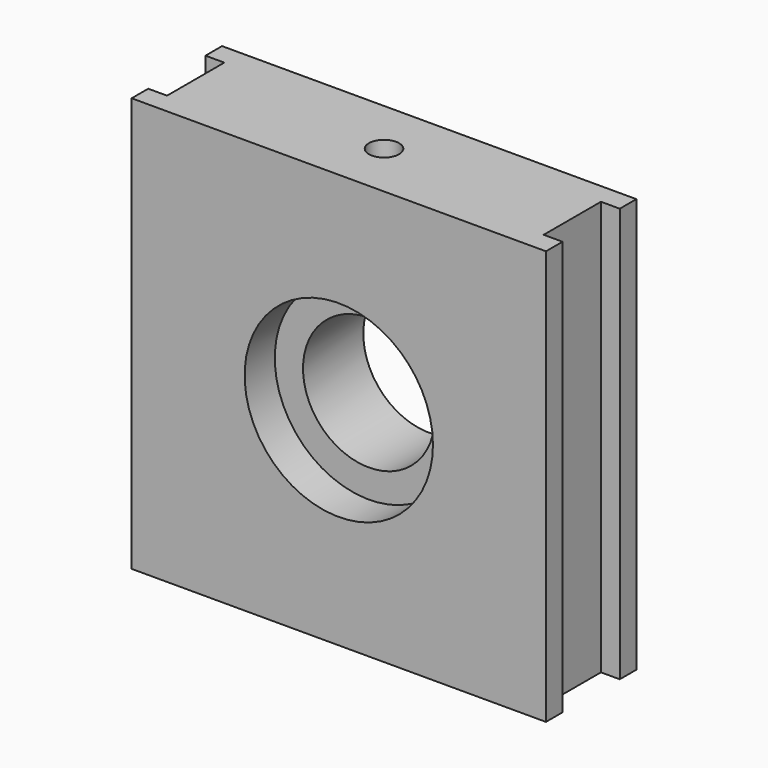
from build123d import *

# Parameters (mm, degrees)
F0_W      = 110
F0_H      = 110
F1_DEPTH  = 30
F2_R      = 25
F2_R_2    = 17.5
F3_DEPTH  = 10
F3_FACE_R = 17.5
F4_DEPTH  = 30.001
F5_W      = 10
F5_H      = 19
F6_DEPTH  = 110.001
F7_R      = 4
F8_DEPTH  = 25.4


with BuildPart() as f1:
    # F0 (on Front) → F1 (new body)
    with BuildSketch(Plane.XZ):
        Rectangle(F0_W, F0_H)
    extrude(amount=F1_DEPTH)

    # F2 (on face) → F3 (cut)
    with BuildSketch(Plane.XZ.offset(30)):
        Circle(F2_R)
        Circle(F2_R_2, mode=Mode.SUBTRACT)
        Circle(F2_R)
        Circle(F2_R_2, mode=Mode.SUBTRACT)
    extrude(amount=-F3_DEPTH, mode=Mode.SUBTRACT)

    # F3_face (on face) → F4 (cut, through all)
    with BuildSketch(Plane.XZ.offset(30)):
        Circle(F3_FACE_R)
    extrude(amount=-F4_DEPTH, mode=Mode.SUBTRACT)

    # F5 (on face) → F6 (cut, through all)
    with BuildSketch(Plane.XY.offset(55)):
        with Locations((-55, -15)):
            Rectangle(F5_W, F5_H)
        with Locations((55, -15)):
            Rectangle(F5_W, F5_H)
    extrude(amount=-F6_DEPTH, mode=Mode.SUBTRACT)

    # F7 (on face) → F8 (cut)
    with BuildSketch(Plane.XY.offset(55)):
        with Locations((0, -15)):
            Circle(F7_R)
    extrude(amount=-F8_DEPTH, mode=Mode.SUBTRACT)


solid = f1.part
